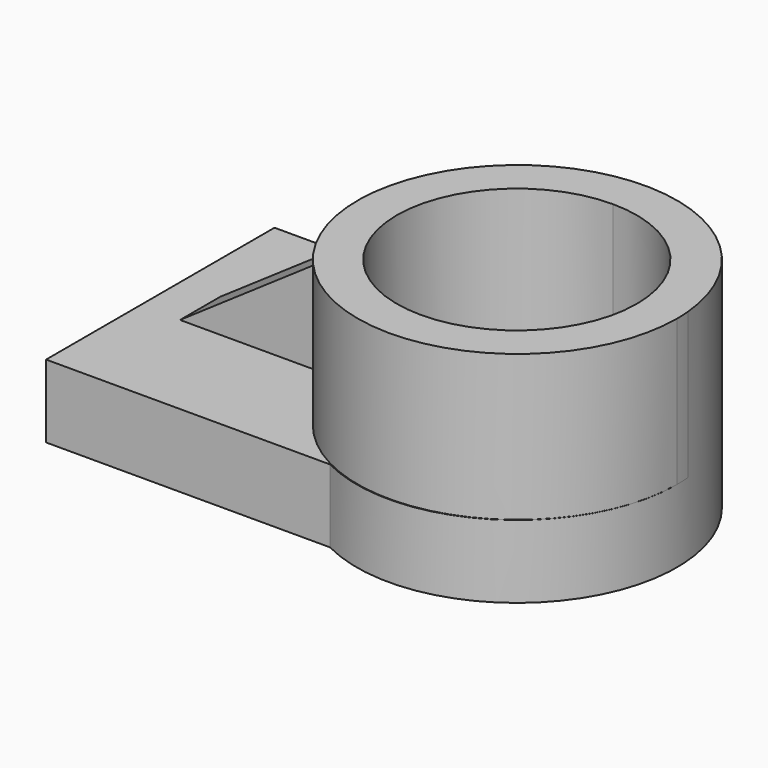
from build123d import *

# Parameters (mm, degrees)
F1_DEPTH = 25.4
F2_DEPTH = 76.2
F4_DEPTH = 50.8
F6_DEPTH = 38.1
F9_DEPTH = 50.8


with BuildPart() as f1:
    # F0 (on Top) → F1 (new body)
    with BuildSketch(Plane.XY):
        with BuildLine():
            ThreePointArc((36.7828311237, -49.6836304665), (6.3025091863, 0), (36.7828311237, 49.6836304665))
            Line((36.7828311237, 49.6836304665), (-62.0354041457, 49.6836304665))
            Line((-62.0354041457, 49.6836304665), (-62.0354041457, -49.6836304665))
            Line((-62.0354041457, -49.6836304665), (36.7828311237, -49.6836304665))
        make_face()
    extrude(amount=F1_DEPTH)

    # F0 (on Top) → F2 (join)
    with BuildSketch(Plane.XY):
        with BuildLine():
            Line((62.0354041457, 41.7620725768), (62.0354041457, 49.6836304665))
            Line((62.0354041457, 49.6836304665), (36.7828311237, 49.6836304665))
            ThreePointArc((36.7828311237, 49.6836304665), (6.3025091863, 0), (36.7828311237, -49.6836304665))
            Line((36.7828311237, -49.6836304665), (62.0354041457, -49.6836304665))
            Line((62.0354041457, -49.6836304665), (62.0354041457, -41.7620725768))
            ThreePointArc((62.0354041457, -41.7620725768), (20.2733315689, 0), (62.0354041457, 41.7620725768))
        make_face()
        with BuildLine():
            Line((36.7828311237, 49.6836304665), (62.0354041457, 49.6836304665))
            Line((62.0354041457, 49.6836304665), (62.0354041457, 41.7620725768))
            ThreePointArc((62.0354041457, 41.7620725768), (91.5656488612, 29.5302447155), (103.7974767226, 0))
            ThreePointArc((103.7974767226, 0), (91.5656488612, -29.5302447155), (62.0354041457, -41.7620725768))
            Line((62.0354041457, -41.7620725768), (62.0354041457, -49.6836304665))
            Line((62.0354041457, -49.6836304665), (36.7828311237, -49.6836304665))
            ThreePointArc((36.7828311237, -49.6836304665), (91.1794994385, -47.5055500981), (117.7682991051, 0))
            ThreePointArc((117.7682991051, 0), (91.1794994385, 47.5055500981), (36.7828311237, 49.6836304665))
        make_face()
        with BuildLine():
            ThreePointArc((36.7828311237, -49.6836304665), (6.3025091863, 0), (36.7828311237, 49.6836304665))
            Line((36.7828311237, 49.6836304665), (-62.0354041457, 49.6836304665))
            Line((-62.0354041457, 49.6836304665), (-62.0354041457, -49.6836304665))
            Line((-62.0354041457, -49.6836304665), (36.7828311237, -49.6836304665))
        make_face()
    extrude(amount=F2_DEPTH)

    # F3 (on face) → F4 (cut)
    with BuildSketch(Plane.XY.offset(76.2)):
        with BuildLine():
            ThreePointArc((117.5399853374, 5.0395483226), (117.7039365392, 2.5789094219), (117.7586227951, 0.1134209896))
            ThreePointArc((117.7586227951, 0.1134209896), (20.3132089265, -36.5094395307), (69.5168613964, 55.2284652871))
            ThreePointArc((69.5168613964, 55.2284652871), (52.7273733531, 54.9501241429), (36.7828311237, 49.6836304665))
            Line((36.7828311237, 49.6836304665), (-62.0354041457, 49.6836304665))
            Line((-62.0354041457, 49.6836304665), (-62.0354041457, -49.6836304665))
            Line((-62.0354041457, -49.6836304665), (36.7828311237, -49.6836304665))
            ThreePointArc((36.7828311237, -49.6836304665), (93.2996420825, -46.1378695519), (117.5399853374, 5.0395483226))
        make_face()
    extrude(amount=-F4_DEPTH, mode=Mode.SUBTRACT)

    # F5 (on face) → F6 (join)
    with BuildSketch(Plane.XY.offset(25.4)):
        with BuildLine():
            ThreePointArc((7.2234576062, -8.5192370875), (6.5492578133, 0.1134209896), (7.2234576061, 8.7460790667))
            Line((7.2234576062, 8.7460790667), (-48.1677358464, 8.7460790667))
            Line((-48.1677358464, 8.7460790667), (-48.1677358464, -8.7460790667))
            Line((-48.1677358464, -8.7460790667), (7.2234576062, -8.7460790667))
            Line((7.2234576062, -8.7460790667), (7.2234576062, -8.5192370875))
        make_face()
    extrude(amount=F6_DEPTH)

    # F8 (on face) → F9 (cut)
    with BuildSketch(Plane.XZ.offset(8.7460790667)):
        Polygon((-48.1677358464, 63.5), (-48.1677358464, 25.4008052661), (7.095429115, 63.304014504), (7.2234576062, 63.4966630391), (7.2234576062, 63.5), align=None)
    extrude(amount=-F9_DEPTH, mode=Mode.SUBTRACT)


solid = f1.part
